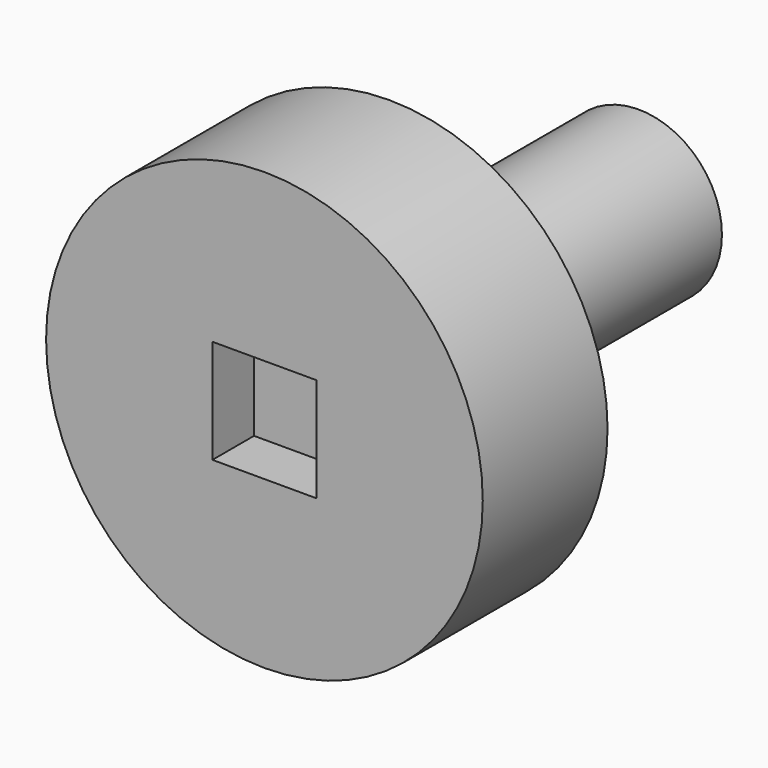
from build123d import *

# Parameters (mm, degrees)
SKETCH_R     = 21
PAD_DEPTH    = 15
SKETCH001_W  = 10
SKETCH001_H  = 10
POCKET_DEPTH = 5
SKETCH002_R  = 8
PAD001_DEPTH = 30


with BuildPart() as part:
    # Sketch → Pad (new body)
    with BuildSketch(Plane.XZ):
        Circle(SKETCH_R)
    extrude(amount=PAD_DEPTH)

    # Sketch001 → Pocket (cut)
    with BuildSketch(Plane.XZ.offset(15)):
        Rectangle(SKETCH001_W, SKETCH001_H)
    extrude(amount=-POCKET_DEPTH, mode=Mode.SUBTRACT)

    # Sketch002 → Pad001 (new body)
    with BuildSketch(Plane(origin=(0, 0, 0), x_dir=(1, 0, 0), z_dir=(0, 1, 0))):
        Circle(SKETCH002_R)
    extrude(amount=PAD001_DEPTH)


solid = part.part
